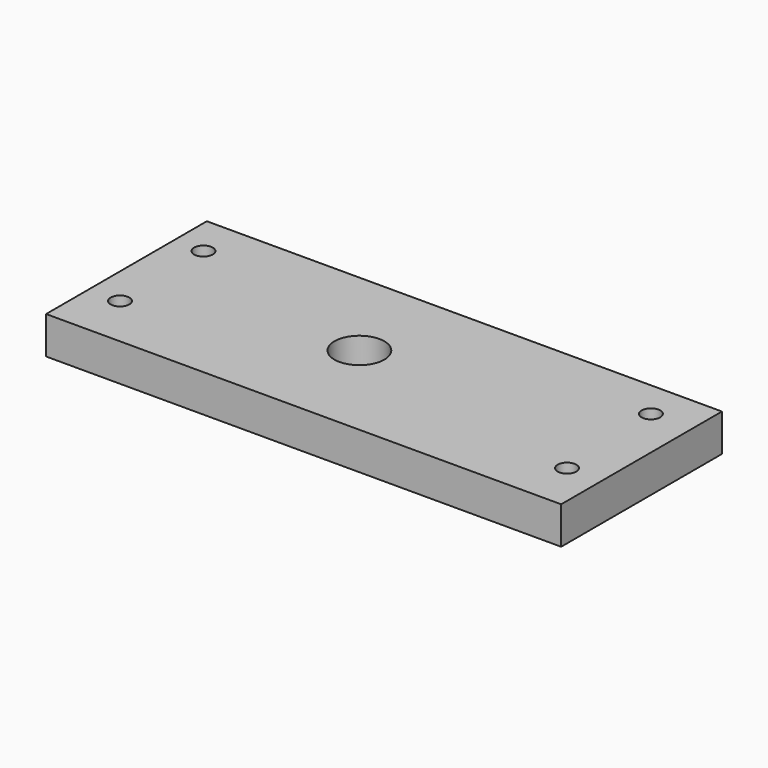
from build123d import *

# Parameters (mm, degrees)
F0_W     = 262.38215
F0_H     = 102.365531
F1_DEPTH = 19.05
F3_D     = 25.4
F5_D     = 9.525


with BuildPart() as f1:
    # F0 (on Top) → F1 (new body)
    with BuildSketch(Plane.XY):
        with Locations((131.191075, 51.182765)):
            Rectangle(F0_W, F0_H)
    extrude(amount=F1_DEPTH)

    # F3 (through all)
    with Locations(Plane.XY.offset(19.05)):
        with Locations((116.925366, 53.350501)):
            Hole(F3_D / 2)

    # F5 (through all)
    with Locations(Plane.XY.offset(19.05)):
        with Locations((14.968506, 81.472881), (15.936192, 27.136751), (241.621628, 83.117127), (244.734511, 25.796823)):
            Hole(F5_D / 2)


solid = f1.part
